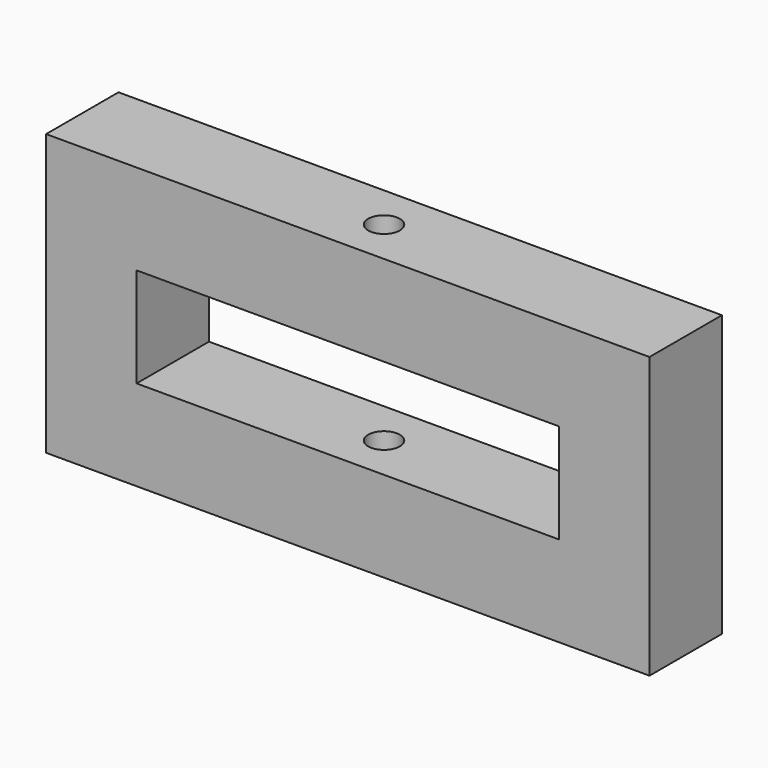
from build123d import *

# Parameters (mm, degrees)
F0_W     = 30
F0_H     = 33
F1_DEPTH = 30
F3_D     = 10.5


with BuildPart() as f1:
    # F0 (on Front) → F1 (new body)
    with BuildSketch(Plane.XZ):
        Polygon((104.811853, 9.542391), (-95.188147, 9.542391), (-95.188147, -20.457609), (-65.188147, -20.457609), (74.811853, -20.457609), (104.811853, -20.457609), align=None)
        with Locations((-80.188147, -36.957609)):
            Rectangle(F0_W, F0_H)
        with Locations((89.811853, -36.957609)):
            Rectangle(F0_W, F0_H)
        Polygon((-65.188147, -53.457609), (-95.188147, -53.457609), (-95.188147, -83.457609), (104.811853, -83.457609), (104.811853, -53.457609), (74.811853, -53.457609), align=None)
    extrude(amount=F1_DEPTH)

    # F3 (through all)
    with Locations(Plane.XY.offset(9.542391)):
        with Locations((4.811853, -15)):
            Hole(F3_D / 2)


solid = f1.part
